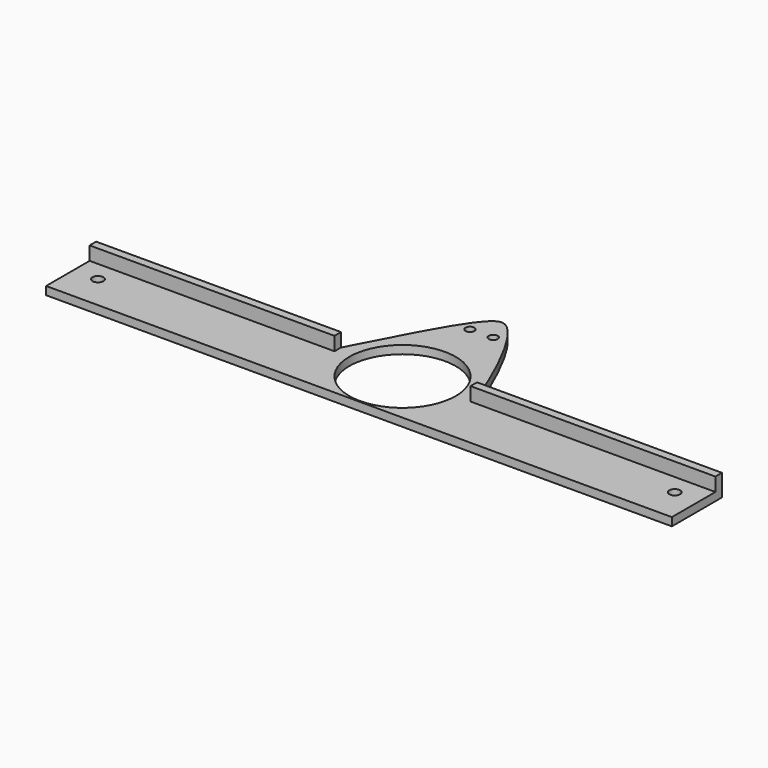
from build123d import *

# Parameters (mm, degrees)
F0_R     = 2
F1_DEPTH = 2
F0_W     = 90
F0_H     = 3
F2_DEPTH = 8
F0_R_2   = 1.65
F3_DEPTH = 3
F4_DEPTH = 8


with BuildPart() as f1:
    # F0 (on Top) → F1 (new body)
    with BuildSketch(Plane.XY):
        with BuildLine():
            Line((-25, 10), (-115, 10))
            Line((-115, 10), (-115, -10))
            Line((-115, -10), (115, -10))
            Line((115, -10), (115, 10))
            Line((115, 10), (25.00533, 10))
            Line((25.00533, 10), (19.5469227509, 10))
            ThreePointArc((19.5469227509, 10), (0, -9.5469227509), (-19.5469227509, 10))
            Line((-19.5469227509, 10), (-25, 10))
        make_face()
        with Locations((-106, 2.58)):
            Circle(F0_R, mode=Mode.SUBTRACT)
        with Locations((106, 2.58)):
            Circle(F0_R, mode=Mode.SUBTRACT)
    extrude(amount=F1_DEPTH)

    # F0 (on Top) → F2 (join)
    with BuildSketch(Plane.XY):
        with Locations((-70, 11.5)):
            Rectangle(F0_W, F0_H)
    extrude(amount=F2_DEPTH)

    # F0 (on Top) → F3 (join)
    with BuildSketch(Plane.XY):
        with Locations((-70, 11.5)):
            Rectangle(F0_W, F0_H)
        with BuildLine():
            Line((-25, 10), (-115, 10))
            Line((-115, 10), (-115, -10))
            Line((-115, -10), (115, -10))
            Line((115, -10), (115, 10))
            Line((115, 10), (25.00533, 10))
            Line((25.00533, 10), (19.5469227509, 10))
            ThreePointArc((19.5469227509, 10), (0, -9.5469227509), (-19.5469227509, 10))
            Line((-19.5469227509, 10), (-25, 10))
        make_face()
        with Locations((-106, 2.58)):
            Circle(F0_R, mode=Mode.SUBTRACT)
        with Locations((106, 2.58)):
            Circle(F0_R, mode=Mode.SUBTRACT)
        with BuildLine():
            Line((-25, 13), (-25, 10))
            Line((-25, 10), (-19.5469227509, 10))
            ThreePointArc((-19.5469227509, 10), (-19.4889399629, 11.5044627456), (-19.3153355919, 13))
            Line((-19.3153355919, 13), (-25, 13))
        make_face()
        with BuildLine():
            add(Edge.make_bspline(
                [(-25, 13), (-15.2288932053, 31.7892976505), (-3.8915806674, 54.4419920661), (6.3176813113, 54.2545952389), (17.3850999523, 33.1166154585), (25, 13)],
                knots=[0, 0, 0, 0, 0.4320168298, 0.5736597665, 1, 1, 1, 1], degree=3))
            Line((-25, 13), (-19.3153355919, 13))
            ThreePointArc((-19.3153355919, 13), (0, 29.5469227509), (19.3153355919, 13))
            Line((19.3153355919, 13), (25, 13))
        make_face()
        with Locations((-3.1577504706, 44.9546910822)):
            Circle(F0_R_2, mode=Mode.SUBTRACT)
        with Locations((5.1963478327, 45.1933816075)):
            Circle(F0_R_2, mode=Mode.SUBTRACT)
        with BuildLine():
            ThreePointArc((19.3153355919, 13), (19.4889399629, 11.5044627456), (19.5469227509, 10))
            Line((19.5469227509, 10), (25.00533, 10))
            Line((25.00533, 10), (25, 13))
            Line((25, 13), (19.3153355919, 13))
        make_face()
        Polygon((115, 13), (25, 13), (25.00533, 10), (115, 10), align=None)
    extrude(amount=F3_DEPTH)

    # F0 (on Top) → F4 (join)
    with BuildSketch(Plane.XY):
        Polygon((115, 13), (25, 13), (25.00533, 10), (115, 10), align=None)
    extrude(amount=F4_DEPTH)


solid = f1.part
